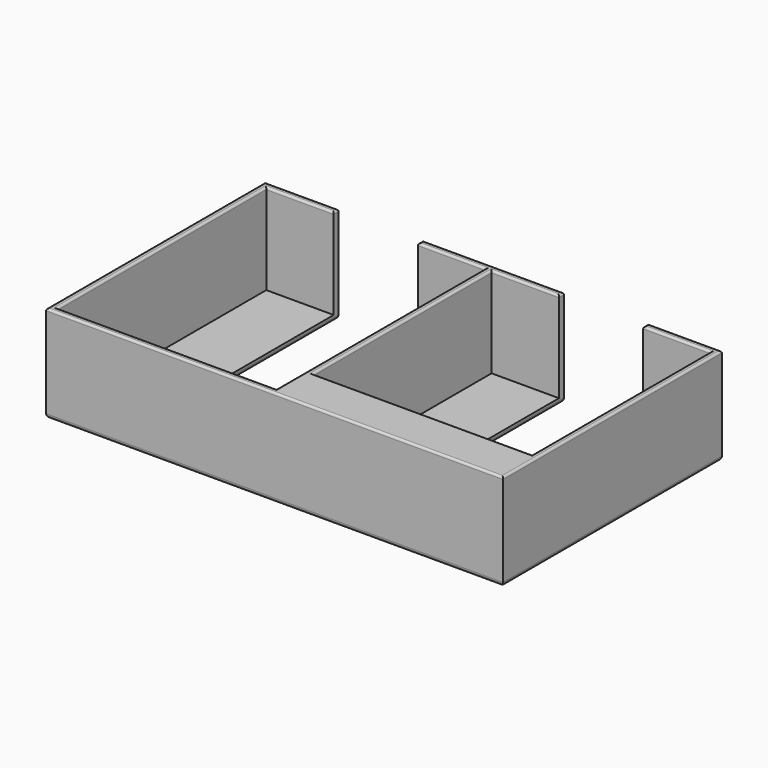
from build123d import *

# Parameters (mm, degrees)
SKETCH006_W     = 108.5
SKETCH006_H     = 65
PAD003_DEPTH    = 23
SKETCH007_W     = 52
SKETCH007_H     = 62
SKETCH007_H_2   = 53
POCKET003_DEPTH = 21.5
POCKET004_DEPTH = 280.109926
FILLET003_R     = 1
FILLET004_R     = 0.5


with BuildPart() as part:
    # Sketch006 → Pad003 (new body)
    with BuildSketch(Plane.XY):
        Rectangle(SKETCH006_W, SKETCH006_H)
    extrude(amount=PAD003_DEPTH)

    # Sketch007 (on DatumPlane) → Pocket003 (cut)
    with BuildSketch(Plane.XY.offset(23)):
        with Locations((-26.75, 0)):
            Rectangle(SKETCH007_W, SKETCH007_H)
        with Locations((26.75, 4.5)):
            Rectangle(SKETCH007_W, SKETCH007_H_2)
    extrude(amount=-POCKET003_DEPTH, mode=Mode.SUBTRACT)

    # Sketch008 (on DatumPlane) → Pocket004 (cut, through all)
    with BuildSketch(Plane(origin=(-26.75, 0, 23), x_dir=(1, 0, 0), z_dir=(0, 0, 1))):
        with BuildLine():
            Line((10, 0), (10, 40))
            Line((10, 40), (-10, 40))
            Line((-10, 40), (-10, 0))
            ThreePointArc((-10, 0), (0, -10.840906), (10, 0))
        make_face()
    pocket004 = extrude(amount=-POCKET004_DEPTH, mode=Mode.SUBTRACT)

    # Mirrored002: Pocket004 across YZ
    add(pocket004.mirror(Plane.YZ), mode=Mode.SUBTRACT)

    # Fillet003
    fillet003_edges = [part.edges().sort_by_distance(p)[0] for p in [
        (-45.5, 32.5, 0),
        (-36.75, 16.25, 0),
        (-26.75, -10.840906, 0),
        (-16.75, 16.25, 0),
        (0, 32.5, 0),
        (16.75, 16.25, 0),
        (26.75, -10.840906, 0),
        (36.75, 16.25, 0),
        (45.5, 32.5, 0),
        (54.25, 0, 0),
        (0, -32.5, 0),
        (-54.25, 0, 0),
    ]]
    fillet(fillet003_edges, radius=FILLET003_R)

    # Fillet004
    fillet004_edges = [part.edges().sort_by_distance(p)[0] for p in [
        (-45.5, 32.5, 23),
        (-36.75, 31.75, 23),
        (-44.75, 31, 23),
        (-52.75, 0, 23),
        (-26.75, -31, 23),
        (-0.75, 0, 23),
        (-8.75, 31, 23),
        (-16.75, 31.75, 23),
        (0, 32.5, 23),
        (16.75, 31.75, 23),
        (8.75, 31, 23),
        (0.75, 4.5, 23),
        (26.75, -22, 23),
        (52.75, 4.5, 23),
        (44.75, 31, 23),
        (36.75, 31.75, 23),
        (45.5, 32.5, 23),
        (54.25, 0, 23),
        (0, -32.5, 23),
        (-54.25, 0, 23),
    ]]
    fillet(fillet004_edges, radius=FILLET004_R)


with BuildPart() as part_1:
    # Body002 placement: moved
    add(part.part.moved(Location((-41, 113, 14))))


solid = part_1.part
